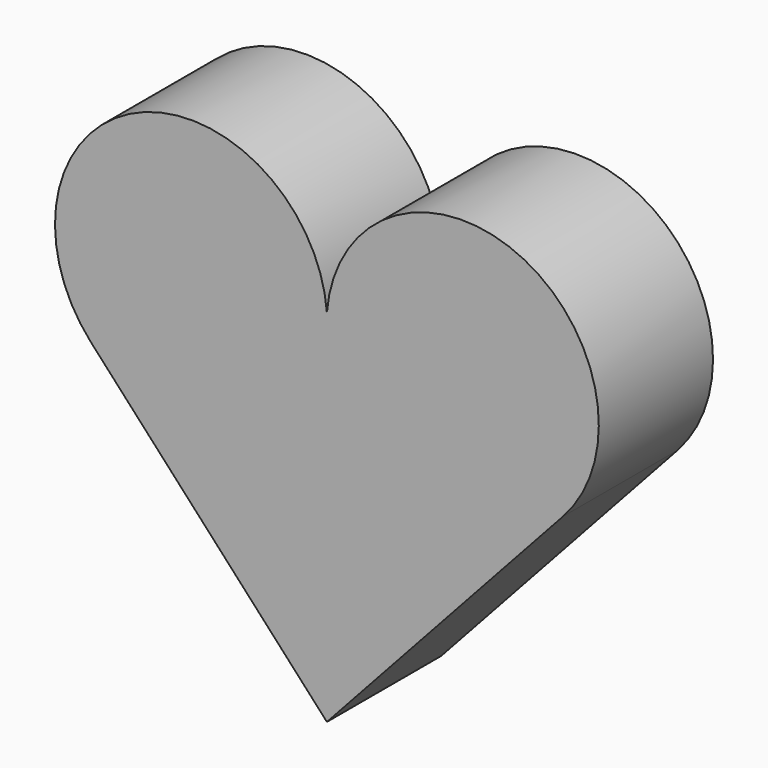
from build123d import *

# Parameters (mm, degrees)
F1_DEPTH = 24.57086


with BuildPart() as f1:
    # F0 (on Front) → F1 (new body)
    with BuildSketch(Plane.XZ):
        with BuildLine():
            Line((0, -36.496636), (40.643669, 7.860045))
            ThreePointArc((40.643669, 7.860045), (32.70625, 45.186662), (0, 25.525019))
            Line((0, 25.525019), (0, 21.860771))
            Line((0, 21.860771), (0, -36.496636))
        make_face()
    extrude(amount=F1_DEPTH)

    # F2: F1 across plane


with BuildPart() as f1_1:
    add(f1.part)
    add(f1.part.mirror(Plane.YZ))


solid = f1_1.part
